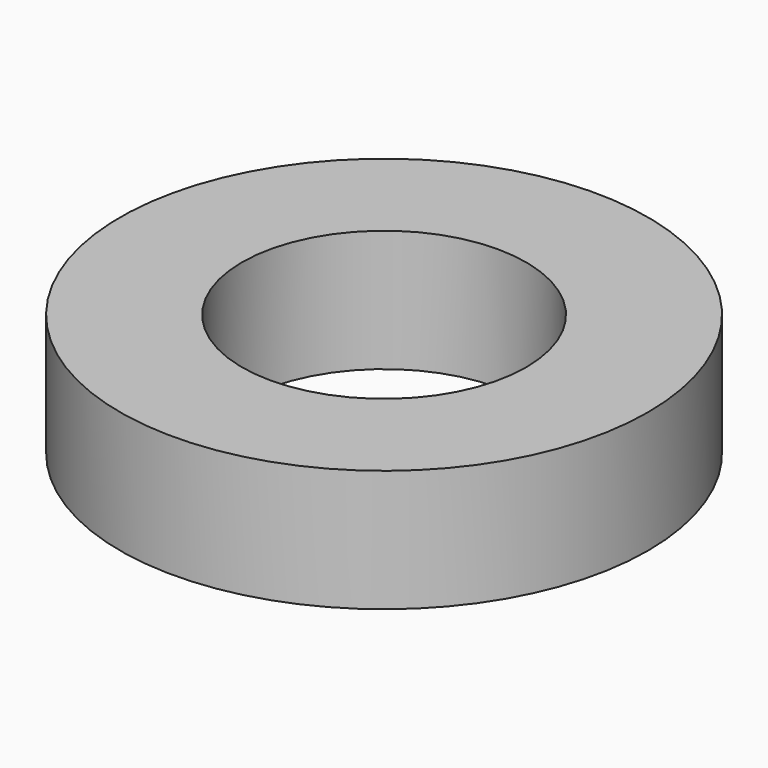
from build123d import *

# Parameters (mm, degrees)
SKETCH_R      = 26
SKETCH_R_2    = 14
PAD_DEPTH     = 12
SKETCH001_R   = 48
SKETCH001_R_2 = 34
POCKET_DEPTH  = 5


with BuildPart() as part:
    # Sketch → Pad (new body)
    with BuildSketch(Plane.XY):
        Circle(SKETCH_R)
        Circle(SKETCH_R_2, mode=Mode.SUBTRACT)
    extrude(amount=PAD_DEPTH)

    # Sketch001 (on Face4 of Pad) → Pocket (cut)
    with BuildSketch(Plane.XY.offset(12)):
        Circle(SKETCH001_R)
        Circle(SKETCH001_R_2, mode=Mode.SUBTRACT)
    extrude(amount=-POCKET_DEPTH, mode=Mode.SUBTRACT)


solid = part.part
